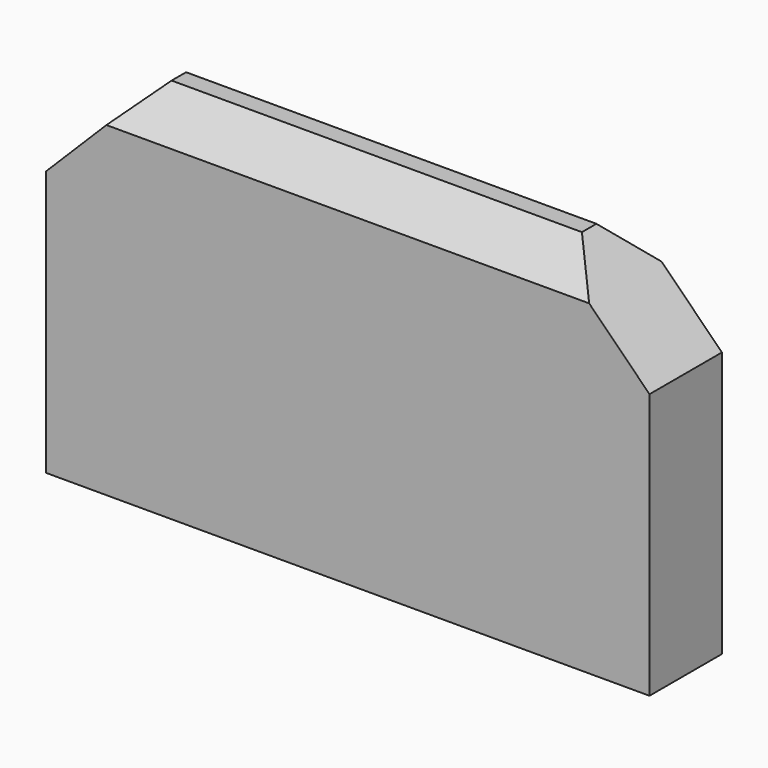
from build123d import *

# Parameters (mm, degrees)
F0_W     = 127
F0_H     = 76.2
F1_DEPTH = 19.05
F2_SIZE  = 20.32
F3_SIZE  = 7.62


with BuildPart() as f1:
    # F0 (on Front) → F1 (new body)
    with BuildSketch(Plane.XZ):
        with Locations((-18.789873, -52.389765)):
            Rectangle(F0_W, F0_H)
    extrude(amount=F1_DEPTH)

    # F2
    f2_edges = [f1.edges().sort_by_distance(p)[0] for p in [
        (44.710127, -9.525, -14.289765),
        (-82.289873, -9.525, -14.289765),
    ]]
    chamfer(f2_edges, length=F2_SIZE)

    # F3
    f3_edges = [f1.edges().sort_by_distance(p)[0] for p in [
        (-18.789873, -19.05, -14.289765),
        (-18.789873, 0, -14.289765),
    ]]
    chamfer(f3_edges, length=F3_SIZE)


solid = f1.part
